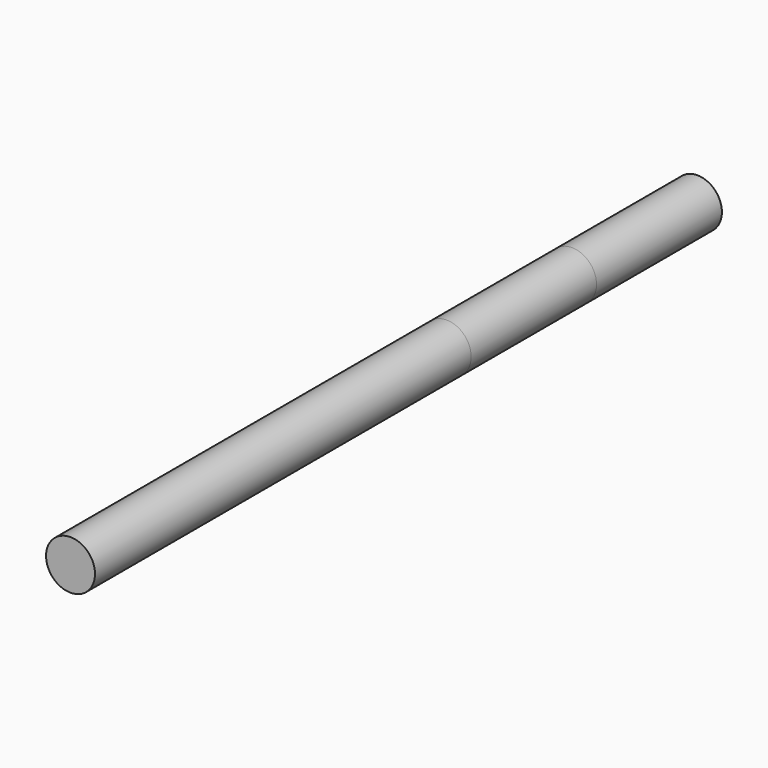
from build123d import *

# Parameters (mm, degrees)
F0_R      = 1.5875
F1_DEPTH  = 10.16
F1_FACE_R = 1.5875
F2_DEPTH  = 10.16
F3_R      = 1.5875
F4_DEPTH  = 30.48


with BuildPart() as f1:
    # F0 (on Front) → F1 (new body)
    with BuildSketch(Plane.XZ):
        Circle(F0_R)
    extrude(amount=F1_DEPTH)


with BuildPart() as f2:
    # F1_face (on face) → F2 (new body)
    with BuildSketch(Plane.XZ.offset(10.16)):
        Circle(F1_FACE_R)
    extrude(amount=F2_DEPTH)


with BuildPart() as f4:
    # F3 (on face) → F4 (new body)
    with BuildSketch(Plane.XZ.offset(20.32)):
        Circle(F3_R)
    extrude(amount=F4_DEPTH)


solid = Compound([f1.part, f2.part, f4.part])
